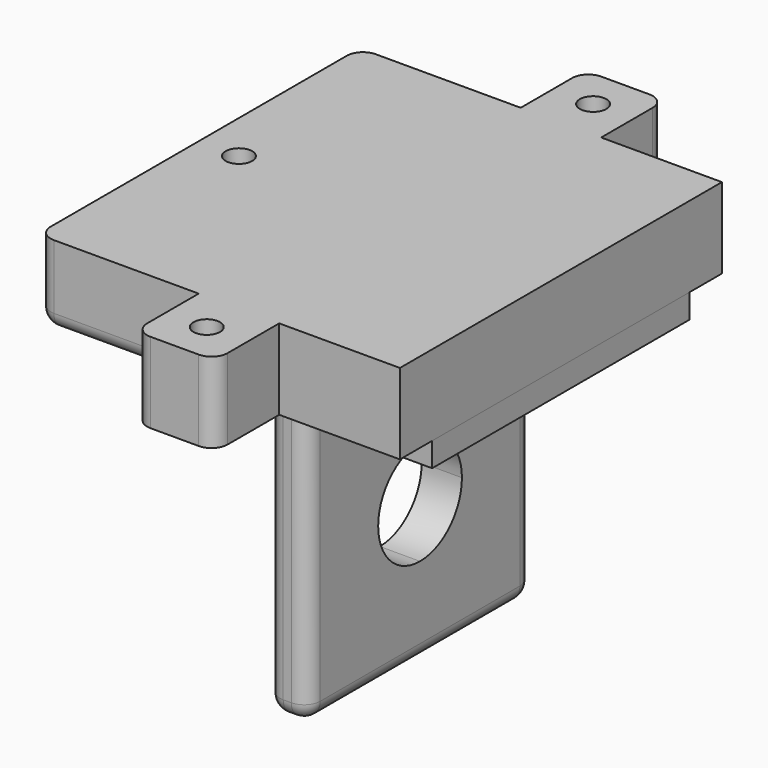
from build123d import *

# Parameters (mm, degrees)
F1_DEPTH        = 5
F3_DEPTH        = 3
F5_D            = 3.3
F6_W            = 2.1666669659
F6_H            = 10
F6_W_2          = 7.8333330341
F7_DEPTH        = 10
F9_DEPTH        = 40
F11_D           = 3.3
F11_DEPTH       = 5
F11_TIP         = 0.9914200214
F12_R           = 2
F14_D           = 3.3
F14_DEPTH       = 10
F14_CSINK_D     = 8.7
F14_CSINK_ANGLE = 90
F14_TIP         = 0.9914200214
F15_R           = 2


with BuildPart() as f1:
    # F0 (on Right) → F1 (new body)
    with BuildSketch(Plane.YZ):
        with BuildLine():
            Line((0, 35), (0, 0))
            Line((0, 0), (17.5, 0))
            Line((17.5, 0), (17.5, 11))
            ThreePointArc((17.5, 11), (11, 17.5), (17.5, 24))
            Line((17.5, 24), (17.5, 35))
            Line((17.5, 35), (0, 35))
        make_face()
        with BuildLine():
            Line((17.5, 11), (17.5, 0))
            Line((17.5, 0), (35, 0))
            Line((35, 0), (35, 35))
            Line((35, 35), (17.5, 35))
            Line((17.5, 35), (17.5, 24))
            ThreePointArc((17.5, 24), (22.0961940777, 22.0961940777), (24, 17.5))
            ThreePointArc((24, 17.5), (22.0961940777, 12.9038059223), (17.5, 11))
        make_face()
        with BuildLine():
            Line((17.5, 11), (17.5, 0))
            Line((17.5, 0), (35, 0))
            Line((35, 0), (35, 35))
            Line((35, 35), (17.5, 35))
            Line((17.5, 35), (17.5, 24))
            ThreePointArc((17.5, 24), (22.0961940777, 22.0961940777), (24, 17.5))
            ThreePointArc((24, 17.5), (22.0961940777, 12.9038059223), (17.5, 11))
        make_face()
    extrude(amount=F1_DEPTH)

    # F2 (on face) → F3 (join)
    with BuildSketch(Plane.XY.offset(35)):
        with BuildLine():
            ThreePointArc((2.5, 37.5), (-11.6421356237, 31.6421356237), (-17.5, 17.5))
            ThreePointArc((-17.5, 17.5), (-11.6421356237, 3.3578643763), (2.5, -2.5))
            ThreePointArc((2.5, -2.5), (16.6421356237, 3.3578643763), (22.5, 17.5))
            ThreePointArc((22.5, 17.5), (16.6421356237, 31.6421356237), (2.5, 37.5))
        make_face()
        Polygon((0, 0), (0, 17.5), (0, 35), (5, 35), (5, 17.5), (5, 0), align=None, mode=Mode.SUBTRACT)
        Polygon((0, 35), (0, 17.5), (2.5, 17.5), (5, 17.5), (5, 35), align=None)
        Polygon((2.5, 17.5), (0, 17.5), (0, 0), (5, 0), (5, 17.5), align=None)
        with BuildLine():
            Line((22.5, 37.5), (2.5, 37.5))
            ThreePointArc((2.5, 37.5), (16.6421356237, 31.6421356237), (22.5, 17.5))
            Line((22.5, 17.5), (22.5, 37.5))
        make_face()
        with BuildLine():
            ThreePointArc((22.5, 17.5), (16.6421356237, 3.3578643763), (2.5, -2.5))
            Line((2.5, -2.5), (22.5, -2.5))
            Line((22.5, -2.5), (22.5, 17.5))
        make_face()
    extrude(amount=F3_DEPTH)

    # F5 (through all)
    with Locations(Plane.XY.offset(38)):
        with Locations((-12.5, 17.5), (17.5, 17.5)):
            Hole(F5_D / 2)

    # F12
    f12_edges = [f1.edges().sort_by_distance(p)[0] for p in [
        (2.5, 0, 0),
        (2.5, 35, 0),
        (0, 17.5, 0),
        (5, 17.5, 0),
        (0, 0, 17.5),
        (5, 0, 17.5),
        (0, 35, 17.5),
        (5, 35, 17.5),
    ]]
    fillet(f12_edges, radius=F12_R)


with BuildPart() as f7:
    # F6 (on face) → F7 (new body)
    with BuildSketch(Plane.XY.offset(38)):
        Polygon((-2.5, 42.5), (2.5, 42.5), (7.5, 42.5), (7.5, 52.5), (-2.5, 52.5), align=None)
        Polygon((7.5, 42.5), (2.5, 42.5), (-2.5, 42.5), (-22.5, 42.5), (-22.5, -7.5), (-2.5, -7.5), (5.3333330341, -7.5), (7.5, -7.5), (22.5, -7.5), (22.5, 42.5), align=None)
        with Locations((6.416666517, -12.5)):
            Rectangle(F6_W, F6_H)
        with Locations((1.416666517, -12.5)):
            Rectangle(F6_W_2, F6_H)
    extrude(amount=F7_DEPTH)

    # F8 (on face) → F9 (cut)
    with BuildSketch(Plane(origin=(-22.5, 0, 0), x_dir=(0, -1, 0), z_dir=(-1, 0, 0))):
        Polygon((-39.5, 46), (-39.5, 42), (-35.5, 42), (0.5, 42), (4.5, 42), (4.5, 46), align=None)
        Polygon((-35.5, 42), (-35.5, 38), (-17.5, 38), (0.5, 38), (0.5, 42), align=None)
    extrude(amount=-F9_DEPTH, mode=Mode.SUBTRACT)

    # F11
    with Locations(Plane.XY.offset(48)):
        with Locations((-17.5, 17.5)):
            Hole(F11_D / 2, depth=F11_DEPTH)
            with Locations((0, 0, -(F11_DEPTH + F11_TIP / 2))):  # 118° drill point
                Cone(0, F11_D / 2, F11_TIP, mode=Mode.SUBTRACT)

    # F14
    with Locations(Plane(origin=(0, 0, 38), x_dir=(1, 0, 0), z_dir=(0, 0, -1))):
        with Locations((2.5, 12.5), (2.5, -47.5)):
            CounterSinkHole(F14_D / 2, F14_CSINK_D / 2, depth=F14_DEPTH, counter_sink_angle=F14_CSINK_ANGLE)
            with Locations((0, 0, -(F14_DEPTH + F14_TIP / 2))):  # 118° drill point
                Cone(0, F14_D / 2, F14_TIP, mode=Mode.SUBTRACT)

    # F15
    f15_edges = [f7.edges().sort_by_distance(p)[0] for p in [
        (-22.5, 39, 38),
        (-22.5, -4, 38),
        (-22.5, -7.5, 43),
        (-22.5, 42.5, 43),
        (-12.5, -7.5, 38),
        (-12.5, 42.5, 38),
        (-2.5, 52.5, 43),
        (-2.5, -17.5, 43),
        (7.5, -17.5, 43),
        (7.5, 52.5, 43),
    ]]
    fillet(f15_edges, radius=F15_R)


solid = Compound([f1.part, f7.part])
